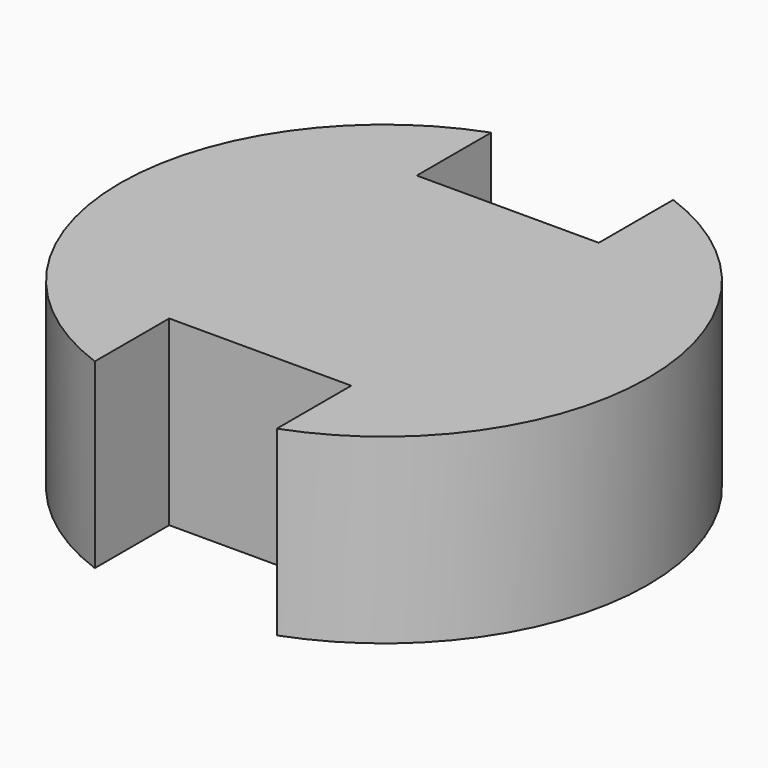
from build123d import *

# Parameters (mm, degrees)
BOX001_W       = 10
BOX001_H       = 6
BOX001_DEPTH   = 10
BOX_W          = 10
BOX_H          = 6
BOX_DEPTH      = 10
CYLINDER_R     = 14.5
CYLINDER_DEPTH = 10


with BuildPart() as cube001_wire_cutter_bottom:
    # Box001 → Box001 (new body)
    with BuildSketch(Plane(origin=(-5, -14.5, 0), x_dir=(1, 0, 0), z_dir=(0, 0, 1))):
        with Locations((5, 3)):
            Rectangle(BOX001_W, BOX001_H)
    extrude(amount=BOX001_DEPTH)


with BuildPart() as cube_wire_cutter_top:
    # Box → Box (new body)
    with BuildSketch(Plane(origin=(-5, 8.5, 0), x_dir=(1, 0, 0), z_dir=(0, 0, 1))):
        with Locations((5, 3)):
            Rectangle(BOX_W, BOX_H)
    extrude(amount=BOX_DEPTH)


with BuildPart() as cut001_inner_ring_spacer:
    # Cylinder → Cylinder (new body)
    with BuildSketch(Plane.XY):
        Circle(CYLINDER_R)
    extrude(amount=CYLINDER_DEPTH)

    # Cut: cut Cube(wire_cutter_top)
    add(cube_wire_cutter_top.part, mode=Mode.SUBTRACT)

    # Cut001: cut Cube001(wire_cutter_bottom)
    add(cube001_wire_cutter_bottom.part, mode=Mode.SUBTRACT)


with BuildPart() as cut001_inner_ring_spacer_1:
    # Cut001 placement: moved
    add(cut001_inner_ring_spacer.part.moved(Location((0, 0, 4))))


solid = cut001_inner_ring_spacer_1.part
